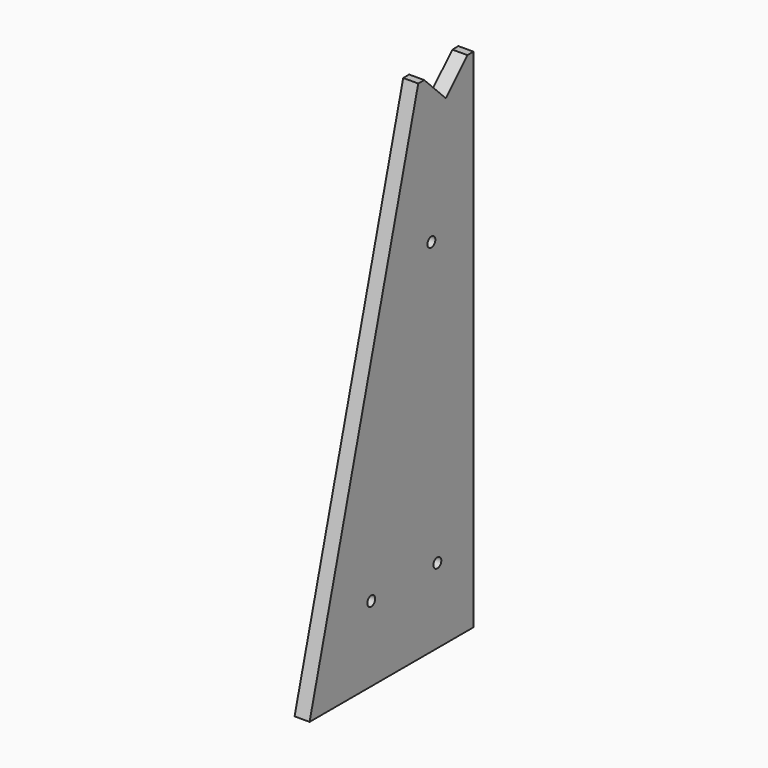
from build123d import *

# Parameters (mm, degrees)
F1_DEPTH = 10
F4_D     = 6.6
F6_D     = 4.2
F6_DEPTH = 35
F6_TIP   = 1.2618073


with BuildPart() as f1:
    # F0 (on Right) → F1 (new body)
    with BuildSketch(Plane.YZ):
        Polygon((-0.5204892877, 337.3), (-90.8997518947, 0), (45.4005351965, 0), (45.4005351965, 337.3), (40.3610474387, 337.3), (22.4005351965, 319.3394877579), (4.4400229544, 337.3), align=None)
    extrude(amount=F1_DEPTH)

    # F4 (through all)
    with Locations(Plane(origin=(0, 0, 0), x_dir=(0, 1, 0), z_dir=(-1, 0, 0))):
        with Locations((10.4005351965, -240), (15.4005351965, -50), (-39.5994648035, -50)):
            Hole(F4_D / 2)

    # F6
    with Locations(Plane(origin=(0, 0, 0), x_dir=(1, 0, 0), z_dir=(0, 0, -1))):
        with Locations((5, 69.5994648035), (5, 19.5994648035), (5, -30.4005351965)):
            Hole(F6_D / 2, depth=F6_DEPTH)
            with Locations((0, 0, -(F6_DEPTH + F6_TIP / 2))):  # 118° drill point
                Cone(0, F6_D / 2, F6_TIP, mode=Mode.SUBTRACT)


solid = f1.part
